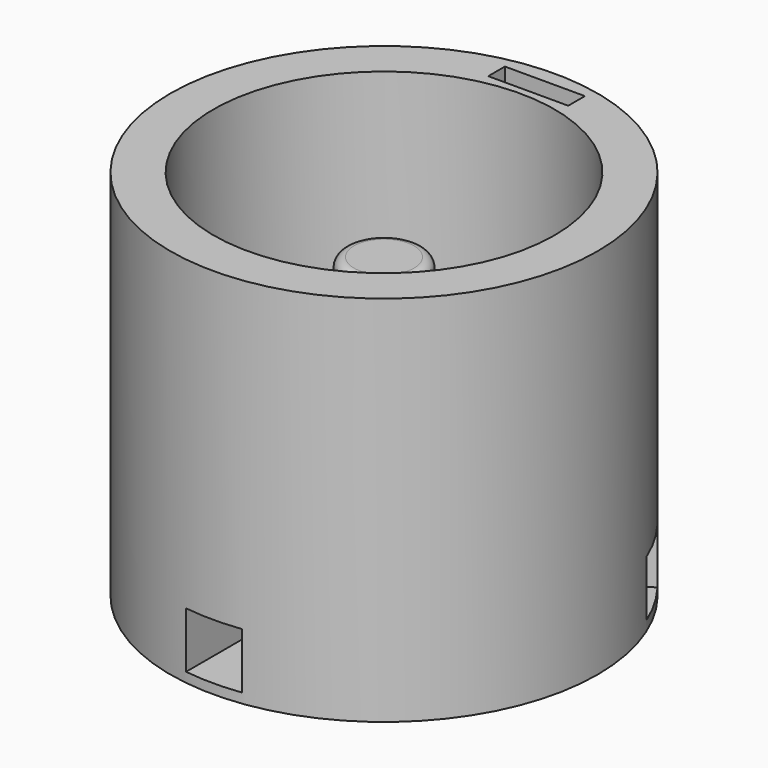
from build123d import *

# Parameters (mm, degrees)
SKETCH_R           = 22.9254053499
PAD_DEPTH          = 40
SKETCH001_R        = 18.304244
POCKET_DEPTH       = 30
SKETCH002_R        = 5.45658
PAD001_DEPTH       = 2
SKETCH003_R        = 4.228884
PAD002_DEPTH       = 20
FILLET_R           = 1
SKETCH004_W        = 47.033489
SKETCH004_H        = 47.446069
PAD003_DEPTH       = 10
SKETCH005_W        = 6
SKETCH005_H        = 6
POCKET001_DEPTH    = 10
POLARPATTERN_COUNT = 3
SKETCH006_W        = 48.955269
SKETCH006_H        = 10.757687
POCKET002_DEPTH    = 47.447069
SKETCH007_W        = 8.584595
SKETCH007_H        = 2.239462
POCKET003_DEPTH    = 8


with BuildPart() as part:
    # Sketch → Pad (new body)
    with BuildSketch(Plane.XY):
        Circle(SKETCH_R)
    extrude(amount=PAD_DEPTH)

    # Sketch001 (on Face3 of Pad) → Pocket (cut)
    with BuildSketch(Plane.XY.offset(40)):
        Circle(SKETCH001_R)
    extrude(amount=-POCKET_DEPTH, mode=Mode.SUBTRACT)

    # Sketch002 (on Face5 of Pocket) → Pad001 (join)
    with BuildSketch(Plane.XY.offset(10)):
        Circle(SKETCH002_R)
    extrude(amount=PAD001_DEPTH)

    # Sketch003 (on Face7 of Pad001) → Pad002 (join)
    with BuildSketch(Plane.XY.offset(12)):
        Circle(SKETCH003_R)
    extrude(amount=PAD002_DEPTH)

    # Fillet
    fillet_edges = [part.edges().sort_by_distance(p)[0] for p in [
        (-4.228884, 0, 32),
    ]]
    fillet(fillet_edges, radius=FILLET_R)

    # Sketch004 (on Face8 of Fillet) → Pad003 (join)
    with BuildSketch(Plane.XY.offset(40)):
        with Locations((0.1454045, -0.1830035)):
            Rectangle(SKETCH004_W, SKETCH004_H)
    extrude(amount=PAD003_DEPTH)

    # Sketch005 (on Face6 of Pad003) → Pocket001 (cut)
    with BuildSketch(Plane.XZ.offset(23.906038)):
        with Locations((-0.0695171845, 4.0478014172)):
            Rectangle(SKETCH005_W, SKETCH005_H)
    pocket001 = extrude(amount=-POCKET001_DEPTH, mode=Mode.SUBTRACT)

    # PolarPattern: Pocket001 ×3 about axis
    polarpattern_axis = Axis((0, 0, 0), (0, 0, 1))
    for i in range(1, POLARPATTERN_COUNT):
        add(pocket001.rotate(polarpattern_axis, i * 360 / POLARPATTERN_COUNT), mode=Mode.SUBTRACT)

    # Sketch006 (on Face6 of PolarPattern) → Pocket002 (cut, through all)
    with BuildSketch(Plane.XZ.offset(23.906038)):
        with Locations((-0.0126055, 45.3770425)):
            Rectangle(SKETCH006_W, SKETCH006_H)
    extrude(amount=-POCKET002_DEPTH, mode=Mode.SUBTRACT)

    # Sketch007 (on Face2 of Pocket002) → Pocket003 (cut)
    with BuildSketch(Plane.XY.offset(39.998199)):
        with Locations((0.2128695, 20.199645)):
            Rectangle(SKETCH007_W, SKETCH007_H)
    extrude(amount=-POCKET003_DEPTH, mode=Mode.SUBTRACT)


solid = part.part
